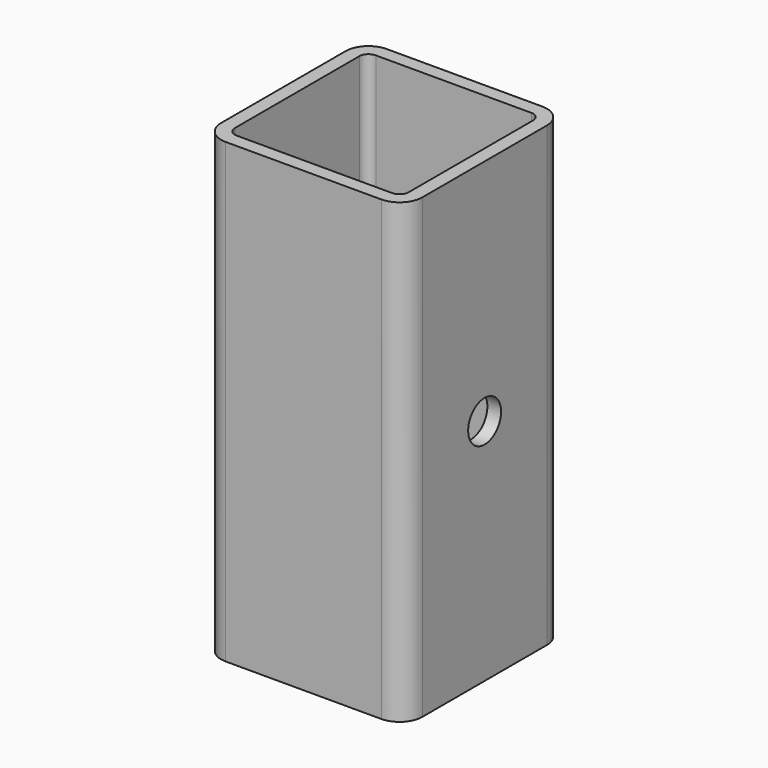
from build123d import *

# Parameters (mm, degrees)
F1_DEPTH = 100
F3_DEPTH = 100.001
F5_D     = 9


with BuildPart() as f1:
    # F0 (on Top) → F1 (new body)
    with BuildSketch(Plane.XY):
        with BuildLine():
            ThreePointArc((22, 17), (20.535534, 20.535534), (17, 22))
            Line((17, 22), (-17, 22))
            ThreePointArc((-17, 22), (-20.535534, 20.535534), (-22, 17))
            Line((-22, 17), (-22, -17))
            ThreePointArc((-22, -17), (-20.535534, -20.535534), (-17, -22))
            Line((-17, -22), (17, -22))
            ThreePointArc((17, -22), (20.535534, -20.535534), (22, -17))
            Line((22, -17), (22, 17))
        make_face()
    extrude(amount=F1_DEPTH)

    # F2 (on face) → F3 (cut, through all)
    with BuildSketch(Plane.XY.offset(100)):
        with BuildLine():
            ThreePointArc((-19, -17), (-18.414214, -18.414214), (-17, -19))
            Line((-17, -19), (17, -19))
            ThreePointArc((17, -19), (18.414214, -18.414214), (19, -17))
            Line((19, -17), (19, 17))
            ThreePointArc((19, 17), (18.414214, 18.414214), (17, 19))
            Line((17, 19), (-17, 19))
            ThreePointArc((-17, 19), (-18.414214, 18.414214), (-19, 17))
            Line((-19, 17), (-19, -17))
        make_face()
    extrude(amount=-F3_DEPTH, mode=Mode.SUBTRACT)

    # F5 (through all)
    with Locations(Plane.YZ.offset(22)):
        with Locations((0, 50)):
            Hole(F5_D / 2)


solid = f1.part
